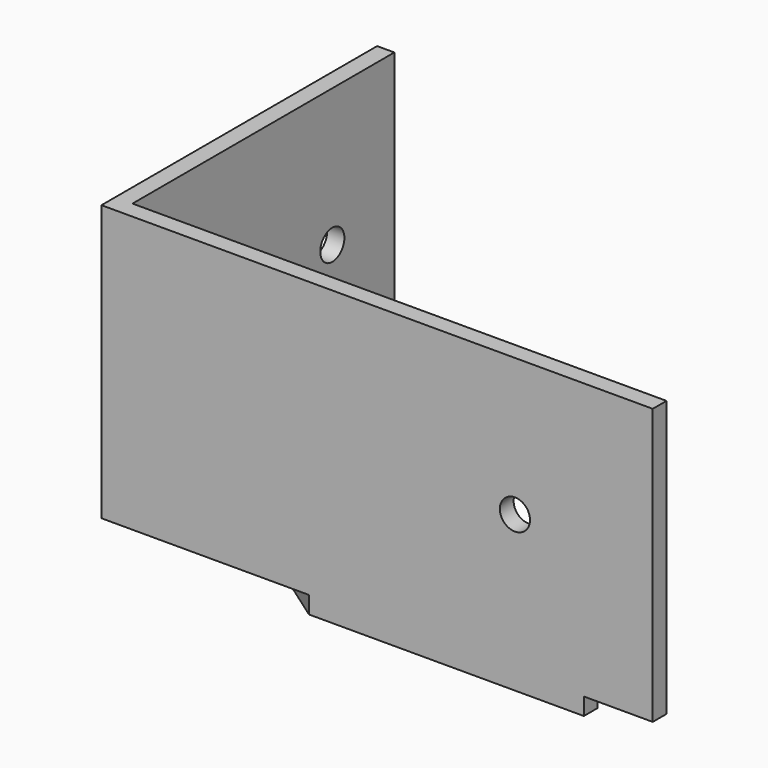
from build123d import *

# Parameters (mm, degrees)
F1_DEPTH = 101.6
F3_DEPTH = 6.35
F4_R     = 5.55625
F5_DEPTH = 6.351
F6_R     = 5.55625
F7_DEPTH = 6.351


with BuildPart() as f1:
    # F0 (on Top) → F1 (new body)
    with BuildSketch(Plane.XY):
        Polygon((6.35, 127), (0, 127), (0, 0), (203.2, 0), (203.2, 6.35), (6.35, 6.35), align=None)
    extrude(amount=F1_DEPTH)

    # F2 (on face) → F3 (join)
    with BuildSketch(Plane(origin=(0, 0, 0), x_dir=(1, 0, 0), z_dir=(0, 0, -1))):
        Polygon((0, -127), (6.35, -127), (177.8, -6.35), (177.8, 0), (76.483584, 0), (0, -53.821781), align=None)
    extrude(amount=F3_DEPTH)

    # F4 (on face) → F5 (cut, through all)
    with BuildSketch(Plane.YZ.offset(6.35)):
        with Locations((34.925, 50.8)):
            Circle(F4_R)
        with Locations((98.425, 50.8)):
            Circle(F4_R)
    extrude(amount=-F5_DEPTH, mode=Mode.SUBTRACT)

    # F6 (on face) → F7 (cut, through all)
    with BuildSketch(Plane(origin=(0, 6.35, 0), x_dir=(-1, 0, 0), z_dir=(0, 1, 0))):
        with Locations((-152.4, 50.8)):
            Circle(F6_R)
    extrude(amount=-F7_DEPTH, mode=Mode.SUBTRACT)


solid = f1.part
